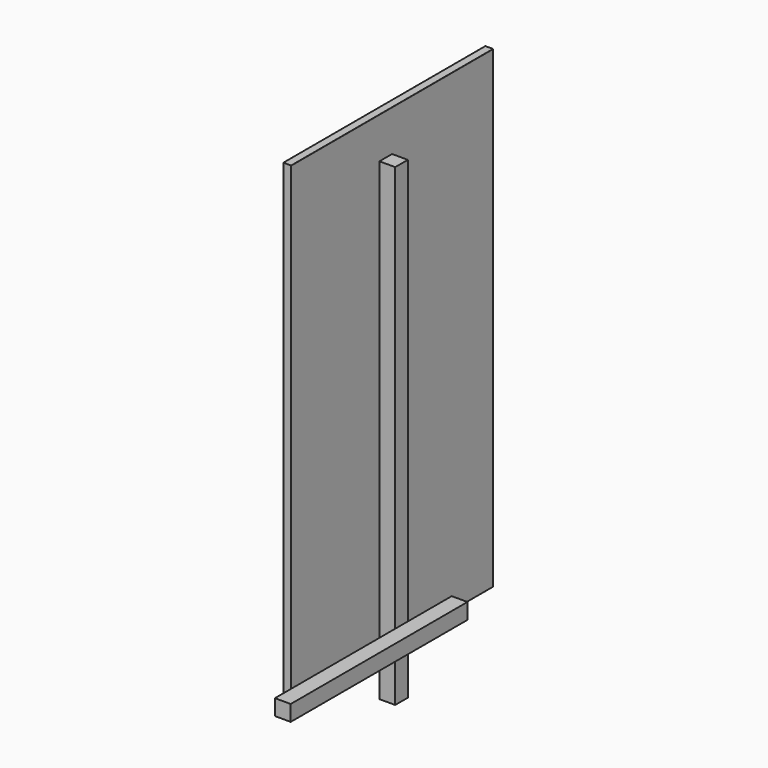
from build123d import *

# Parameters (mm, degrees)
F0_W     = 800
F0_H     = 1500
F1_DEPTH = 25
F2_R     = 0.5
F3_W     = 50
F3_H     = 50
F4_DEPTH = 1500
F5_W     = 50
F5_H     = 50
F6_DEPTH = 700


with BuildPart() as f1:
    # F0 (on Right) → F1 (new body)
    with BuildSketch(Plane.YZ):
        with Locations((400, 750)):
            Rectangle(F0_W, F0_H)
    extrude(amount=F1_DEPTH)

    # F2
    f2_edges = [f1.edges().sort_by_distance(p)[0] for p in [
        (25, 400, 1500),
        (25, 0, 750),
        (25, 400, 0),
        (25, 800, 750),
        (0, 800, 750),
        (0, 400, 0),
        (0, 400, 1500),
        (0, 0, 750),
    ]]
    fillet(f2_edges, radius=F2_R)


with BuildPart() as f4:
    # F3 (on Top) → F4 (new body)
    with BuildSketch(Plane.XY):
        with Locations((206.352584, 179.217196)):
            Rectangle(F3_W, F3_H)
    extrude(amount=F4_DEPTH)


with BuildPart() as f6:
    # F5 (on Front) → F6 (new body)
    with BuildSketch(Plane.XZ):
        with Locations((558.637857, 439.582881)):
            Rectangle(F5_W, F5_H)
    extrude(amount=F6_DEPTH)


solid = Compound([f1.part, f4.part, f6.part])
